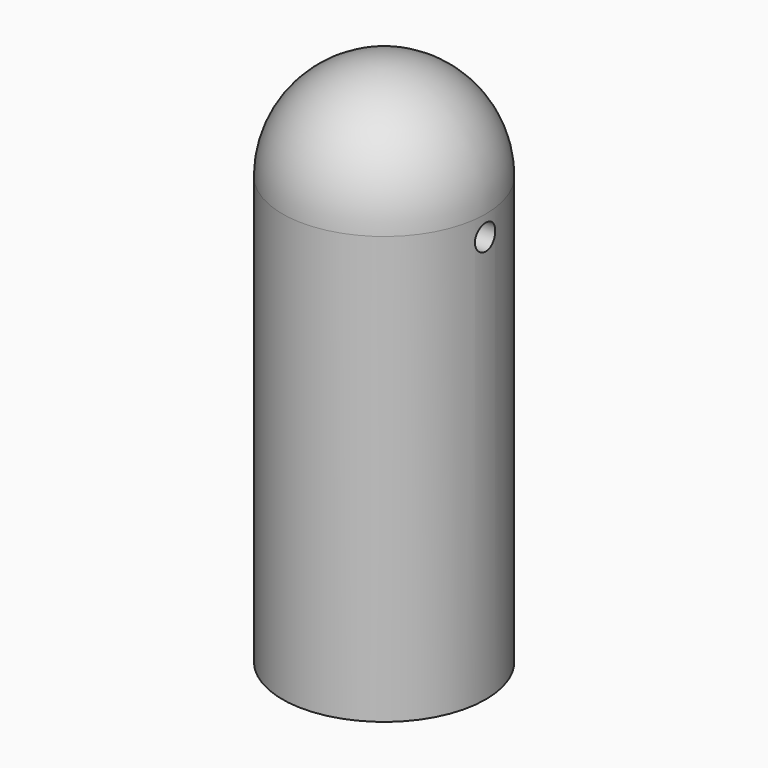
from build123d import *

# Parameters (mm, degrees)
F0_R          = 6.35
F1_DEPTH      = 33.02
F2_R          = 6.35
F3_R          = 0.79375
F4_DEPTH      = 6.351
F4_DEPTH_BACK = 25.4
F5_R          = 4.318
F6_DEPTH      = 19.05
F7_R          = 2.54


with BuildPart() as f1:
    # F0 (on Top) → F1 (new body)
    with BuildSketch(Plane.XY):
        Circle(F0_R)
    extrude(amount=F1_DEPTH)

    # F2
    f2_edges = [f1.edges().sort_by_distance(p)[0] for p in [
        (-6.35, 0, 33.02),
    ]]
    fillet(f2_edges, radius=F2_R)

    # F3 (on Right) → F4 (cut, two sides)
    with BuildSketch(Plane.YZ) as f4_sk:
        with Locations((0, 25.4)):
            Circle(F3_R)
    extrude(amount=F4_DEPTH, mode=Mode.SUBTRACT)
    extrude(f4_sk.sketch, amount=-F4_DEPTH_BACK, mode=Mode.SUBTRACT)

    # F5 (on face) → F6 (cut)
    with BuildSketch(Plane(origin=(0, 0, 0), x_dir=(1, 0, 0), z_dir=(0, 0, -1))):
        Circle(F5_R)
    extrude(amount=-F6_DEPTH, mode=Mode.SUBTRACT)

    # F7
    f7_edges = [f1.edges().sort_by_distance(p)[0] for p in [
        (-4.318, 0, 19.05),
    ]]
    fillet(f7_edges, radius=F7_R)


solid = f1.part
